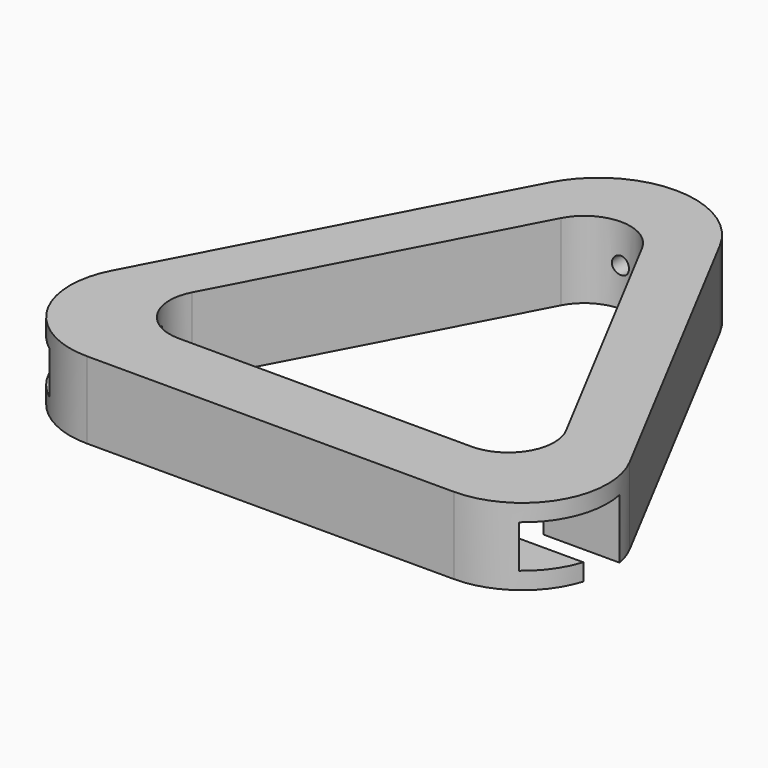
from build123d import *

# Parameters (mm, degrees)
PAD_DEPTH            = 4.5
SKETCH001_R          = 1
POCKET_DEPTH         = 11.302669
POCKET001_DEPTH      = 38.049191
POCKET001_DEPTH_BACK = -38.049191
FILLET_R             = 10


with BuildPart() as part:
    # Sketch → Pad (new body, symmetric)
    with BuildSketch(Plane.XY):
        with BuildLine():
            Line((10, 5.265712), (38.048191, -48))
            Line((-38.048191, -48), (38.048191, -48))
            Line((-38.048191, -48), (-10, 5.265712))
            ThreePointArc((10, 5.265712), (0, 11.301669), (-10, 5.265712))
        make_face()
        with BuildLine():
            Line((-4.76, 0.428554), (-21.895934, -32.113926))
            ThreePointArc((-21.895934, -32.113926), (-21.741576, -37.400351), (-17.135934, -40))
            Line((-17.135934, -40), (17.135934, -40))
            ThreePointArc((17.135934, -40), (21.741576, -37.400351), (21.895934, -32.113926))
            Line((21.895934, -32.113926), (4.76, 0.428554))
            ThreePointArc((4.76, 0.428554), (0, 3.301669), (-4.76, 0.428554))
        make_face(mode=Mode.SUBTRACT)
    extrude(amount=PAD_DEPTH, both=True)

    # Sketch001 → Pocket (cut, through all)
    with BuildSketch(Plane.XZ):
        Circle(SKETCH001_R)
    extrude(amount=-POCKET_DEPTH, mode=Mode.SUBTRACT)

    # Sketch002 → Pocket001 (cut, two sides)
    with BuildSketch(Plane.YZ) as pocket001_sk:
        Polygon((-41, -5.5), (-41, -2.5), (-46, -2.5), (-46, 2.5), (-36, 2.5), (-36, -5.5), align=None)
    extrude(amount=-POCKET001_DEPTH, mode=Mode.SUBTRACT)
    extrude(pocket001_sk.sketch, amount=-POCKET001_DEPTH_BACK, mode=Mode.SUBTRACT)

    # Fillet
    fillet_edges = [part.edges().sort_by_distance(p)[0] for p in [
        (38.048191, -48, 0),
        (-38.048191, -48, 0),
    ]]
    fillet(fillet_edges, radius=FILLET_R)


solid = part.part
